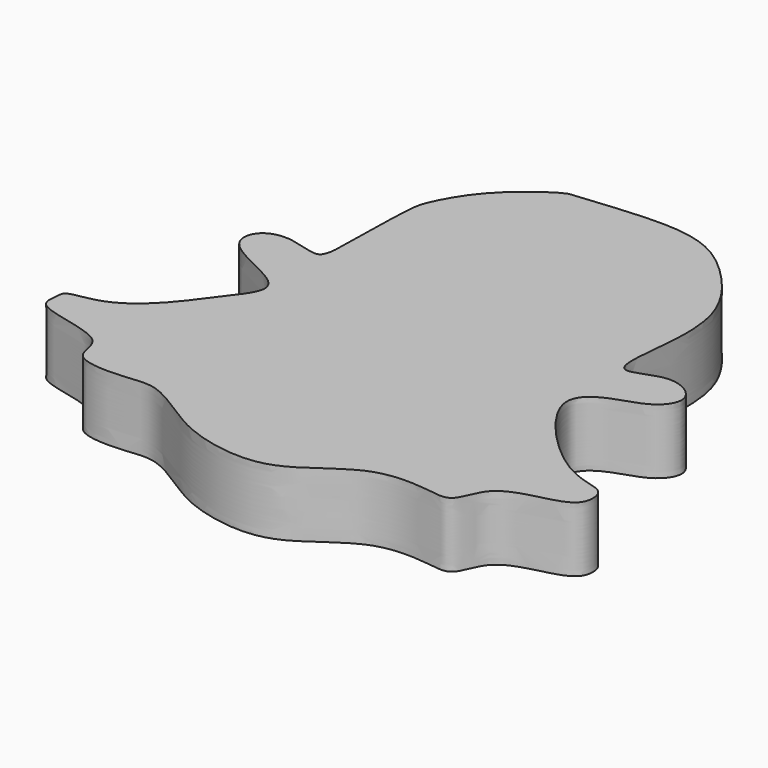
from build123d import *

# Parameters (mm, degrees)
F1_DEPTH = 5


with BuildPart() as f1:
    # F0 (on Top) → F1 (new body)
    with BuildSketch(Plane.XY):
        with BuildLine():
            add(Edge.make_bspline(
                [(-57.6638095081, 46.3086329401), (-58.1968672063, 46.0876734061), (-60.3691395347, 44.5862603068), (-62.3348026698, 42.3657492486), (-63.4672256816, 40.1544279082), (-63.8546464881, 38.7912350251), (-63.8271945892, 31.9759378511), (-63.9936791067, 31.3719804921), (-64.3122003464, 30.4222052609), (-66.9552199363, 31.6547856826), (-69.1766038593, 30.9351700866), (-69.492975631, 28.4121968279), (-64.7287005903, 26.8272882565), (-63.6566920244, 25.1287635201), (-65.6545832017, 22.7629241885), (-67.5040335415, 20.0146570727), (-70.4450198004, 17.6419017877), (-73.2477120012, 17.602383272), (-73.1485584856, 16.669262907), (-73.6574801316, 14.7951432143), (-67.0316585011, 14.5040930493), (-67.8794914416, 11.0636976981), (-63.499438902, 10.9776472318), (-61.1247250647, 11.5640991111), (-57.4684947694, 8.897753707), (-54.5435013555, 7.5746686994), (-49.0272772834, 6.797064571), (-44.7192547589, 11.4288221054), (-40.1103234935, 11.058592497), (-37.9279244896, 10.6311796983), (-37.4342067301, 13.6979841777), (-34.0482794722, 14.4753089854), (-31.4912281251, 15.1759798825), (-31.5832842991, 17.3539026123), (-33.1992843977, 17.7130611959), (-36.2545226915, 18.7198208953), (-42.2977231432, 25.278146958), (-38.7893085997, 27.3745091967), (-36.222290192, 27.8618660145), (-34.8007320323, 30.1057106973), (-37.7530064242, 32.0475598285), (-41.3089699635, 29.5040896953), (-40.7395651752, 34.3829578682), (-40.32592933, 39.8131905618), (-44.2217258934, 44.6858143795), (-48.596596388, 47.5858672399), (-56.8456376073, 46.3185636664), (-57.383214605, 46.4249432742), (-57.6638095081, 46.3086329401)],
                knots=[0, 0, 0, 0, 0.0219553237, 0.0447935622, 0.0636354092, 0.0800806919, 0.1126099892, 0.1233289698, 0.1330472069, 0.1533715702, 0.1717426827, 0.1882922593, 0.2156770437, 0.2316237905, 0.2524201589, 0.2761884442, 0.3008960117, 0.3201601475, 0.3305371983, 0.3447463052, 0.3737705946, 0.3925048328, 0.4160814967, 0.436466661, 0.4621484964, 0.4855077798, 0.5138420635, 0.5447036312, 0.5711702389, 0.5877394594, 0.607251426, 0.6304248068, 0.6501377708, 0.665807966, 0.6803401293, 0.7039524474, 0.7387765404, 0.7596124595, 0.7805947455, 0.7980341875, 0.8187130269, 0.8402788479, 0.8631002286, 0.8935358063, 0.9238159677, 0.9533847207, 0.9884429923, 1, 1, 1, 1], degree=3))
        make_face()
    extrude(amount=F1_DEPTH)


solid = f1.part
